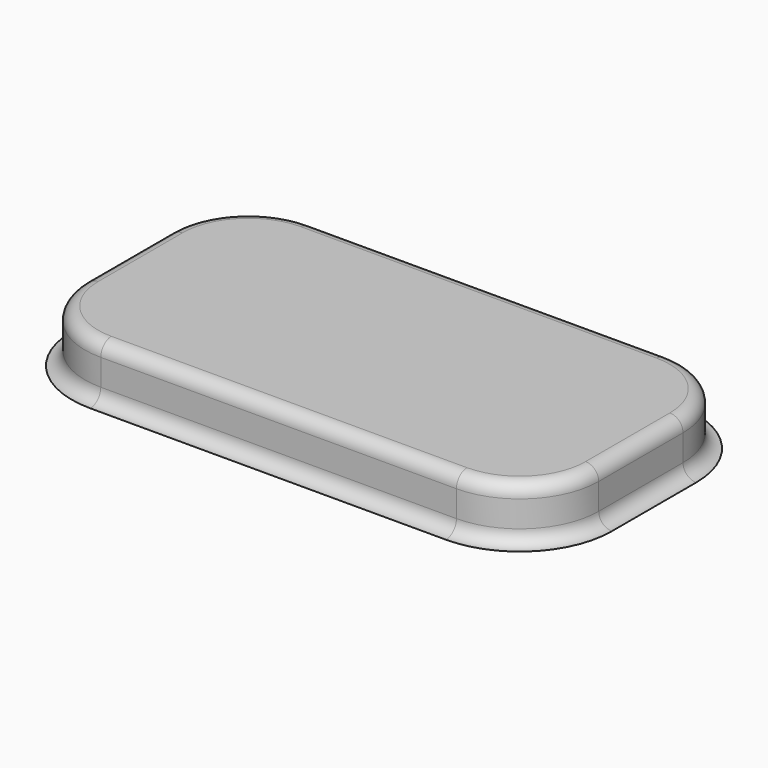
from build123d import *

# Parameters (mm, degrees)
PAD_DEPTH    = 0.2
FILLET_R     = 0.05
SKETCH001_W  = 2.303536
SKETCH001_H  = 1.406875
PAD001_DEPTH = 0.01
FILLET001_R  = 0.05
SKETCH002_W  = 2.303536
SKETCH002_H  = 1.406875
POCKET_DEPTH = 0.01


with BuildPart() as part:
    # Sketch → Pad (new body)
    with BuildSketch(Plane.XY):
        with BuildLine():
            ThreePointArc((3.565519, 0.5), (3.353385, 0.412133), (3.265516, 0.2))
            Line((3.265516, -0.2), (3.265516, 0.2))
            ThreePointArc((3.265516, -0.2), (3.353384, -0.412132), (3.565516, -0.5))
            Line((4.915516, -0.5), (3.565516, -0.5))
            ThreePointArc((4.915516, -0.5), (5.127652, -0.412134), (5.215522, -0.2))
            Line((5.215522, 0.2), (5.215522, -0.2))
            ThreePointArc((5.215522, 0.2), (5.127653, 0.412133), (4.915519, 0.5))
            Line((3.565519, 0.5), (4.915519, 0.5))
        make_face()
    extrude(amount=PAD_DEPTH)

    # Fillet
    fillet_edges = [part.edges().sort_by_distance(p)[0] for p in [
        (3.353385, 0.412133, 0.2),
        (3.265516, 0, 0.2),
        (3.353384, -0.412132, 0.2),
        (4.240516, -0.5, 0.2),
        (5.127652, -0.412134, 0.2),
        (5.215522, 0, 0.2),
        (5.127653, 0.412133, 0.2),
        (4.240519, 0.5, 0.2),
    ]]
    fillet(fillet_edges, radius=FILLET_R)

    # Sketch001 (on Face4 of Fillet) → Pad001 (join)
    with BuildSketch(Plane(origin=(0, 0, 0), x_dir=(1, 0, 0), z_dir=(0, 0, -1))):
        with Locations((4.283474, -0.074854)):
            Rectangle(SKETCH001_W, SKETCH001_H)
    extrude(amount=PAD001_DEPTH)

    # Fillet001
    fillet001_edges = [part.edges().sort_by_distance(p)[0] for p in [
        (4.240519, 0.5, 0),
    ]]
    fillet(fillet001_edges, radius=FILLET001_R)

    # Sketch002 (on Face31 of Fillet001) → Pocket (cut)
    with BuildSketch(Plane(origin=(0, 0, -0.01), x_dir=(1, 0, 0), z_dir=(0, 0, -1))):
        with Locations((4.283474, -0.074854)):
            Rectangle(SKETCH002_W, SKETCH002_H)
    extrude(amount=-POCKET_DEPTH, mode=Mode.SUBTRACT)


solid = part.part
